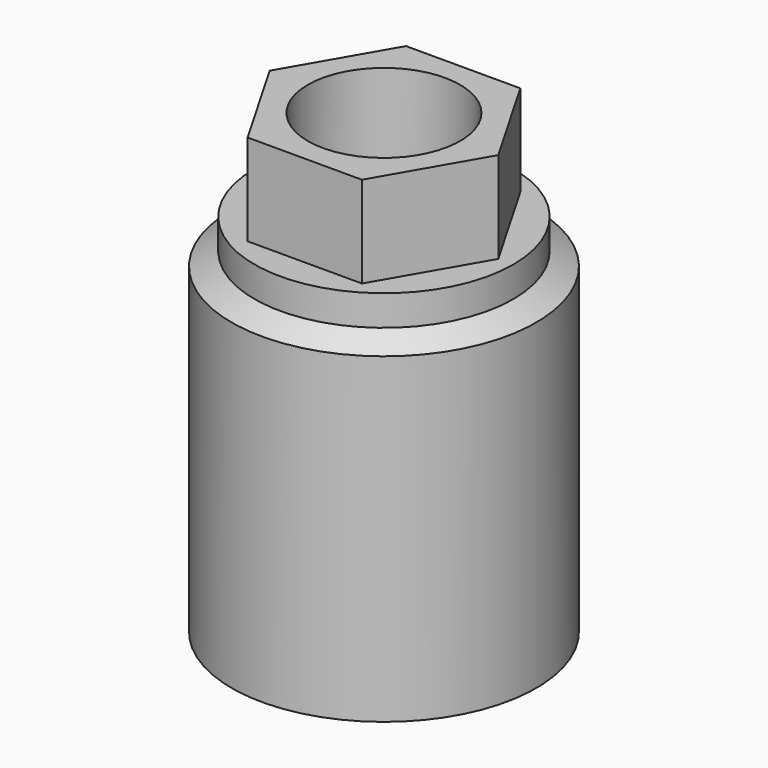
from build123d import *

# Parameters (mm, degrees)
F0_W     = 7.5
F0_H     = 3
F4_R     = 2.5
F4_R_2   = 1
F5_DEPTH = 26.001
F6_R     = 1.25
F7_DEPTH = 8
F8_R     = 8.5
F9_DEPTH = 6


with BuildPart() as f1:
    # F0 (on Front) → F1 (revolve)
    with BuildSketch(Plane.XZ):
        Polygon((-5, 10), (-5, 20), (-8.5, 20), (-8.5, 12), (-10, 11.1339745962), (-10, -10), (-7.5, -10), (-7.5, -6), (-7.5, -3), (-7.5, 4), (-7.5, 8.556624327), align=None)
    revolve(axis=Axis((0, 0, 5.3995972465), (0, 0, -1)))

    # F8 (on face) → F9 (cut)
    with BuildSketch(Plane.XY.offset(20)):
        Circle(F8_R)
        Polygon((-3.7527767497, -6.5), (-7.5055534995, 0), (-3.7527767497, 6.5), (3.7527767497, 6.5), (7.5055534995, 0), (3.7527767497, -6.5), align=None, mode=Mode.SUBTRACT)
    extrude(amount=-F9_DEPTH, mode=Mode.SUBTRACT)


with BuildPart() as f2:
    # F0 (on Front) → F2 (revolve)
    with BuildSketch(Plane.XZ):
        Polygon((0, 10), (-5, 10), (-7.5, 8.556624327), (-7.5, 4), (-6, 4), (-6, 8), (-2.0052228626, 8.0208644567), (-2, 7.0208780959), (0, 7.0313239636), (0, 8.031337603), align=None)
    revolve(axis=Axis((0, 0, 5.3995972465), (0, 0, -1)))

    # F6 (on face) → F7 (cut)
    with BuildSketch(Plane(origin=(0, 0, 4), x_dir=(1, 0, 0), z_dir=(0, 0, -1))):
        with Locations((0, 7.5)):
            Circle(F6_R)
        with Locations((-3.75, 6.4951905284)):
            Circle(F6_R)
        with Locations((-6.4951905284, 3.75)):
            Circle(F6_R)
        with Locations((-7.5, 0)):
            Circle(F6_R)
        with Locations((-6.4951905284, -3.75)):
            Circle(F6_R)
        with Locations((-3.75, -6.4951905284)):
            Circle(F6_R)
        with Locations((0, -7.5)):
            Circle(F6_R)
        with Locations((3.75, -6.4951905284)):
            Circle(F6_R)
        with Locations((6.4951905284, -3.75)):
            Circle(F6_R)
        with Locations((7.5, 0)):
            Circle(F6_R)
        with Locations((6.4951905284, 3.75)):
            Circle(F6_R)
        with Locations((3.75, 6.4951905284)):
            Circle(F6_R)
    extrude(amount=-F7_DEPTH, mode=Mode.SUBTRACT)


with BuildPart() as f3:
    # F0 (on Front) → F3 (revolve)
    with BuildSketch(Plane.XZ):
        with Locations((-3.75, -4.5)):
            Rectangle(F0_W, F0_H)
    revolve(axis=Axis((0, 0, 5.3995972465), (0, 0, -1)))

    # F4 (on face) → F5 (cut, through all)
    with BuildSketch(Plane(origin=(0, 0, -6), x_dir=(1, 0, 0), z_dir=(0, 0, -1))):
        with Locations((4, 0)):
            Circle(F4_R)
        with Locations((-2, 3.4641016151)):
            Circle(F4_R)
        with Locations((-2, -3.4641016151)):
            Circle(F4_R)
        Circle(F4_R_2)
    extrude(amount=-F5_DEPTH, mode=Mode.SUBTRACT)


solid = Compound([f1.part, f2.part, f3.part])
